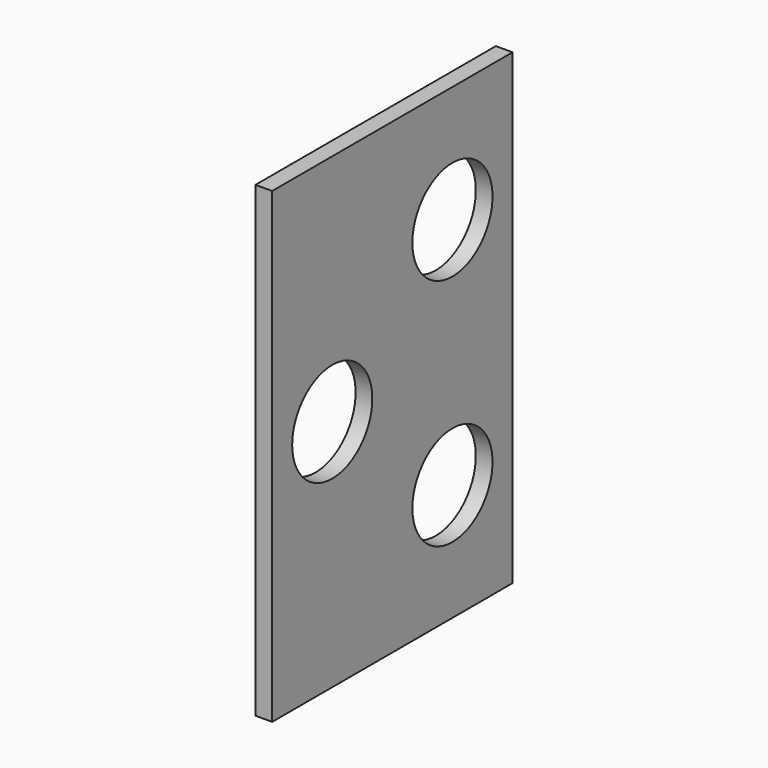
from build123d import *

# Parameters (mm, degrees)
F0_W     = 228.6
F0_H     = 355.6
F1_DEPTH = 12.7
F3_D     = 76.2


with BuildPart() as f1:
    # F0 (on Right) → F1 (new body)
    with BuildSketch(Plane.YZ):
        Rectangle(F0_W, F0_H)
    extrude(amount=F1_DEPTH)

    # F3 (through all)
    with Locations(Plane.YZ.offset(12.7)):
        with Locations((57.15, -88.9), (-57.15, 0), (57.15, 88.9)):
            Hole(F3_D / 2)


solid = f1.part
